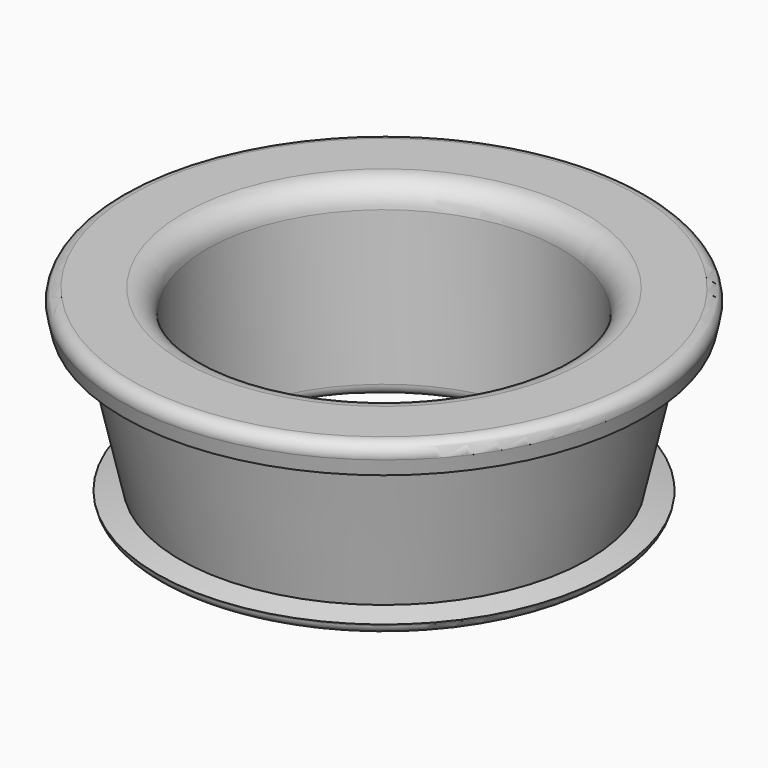
from build123d import *


with BuildPart() as f1:
    # F0 (on Front) → F1 (revolve)
    with BuildSketch(Plane.XZ):
        with BuildLine():
            ThreePointArc((-16, 0), (-15.292893, 0.292893), (-15, 1))
            Line((-15, 1), (-15, 14))
            ThreePointArc((-15, 14), (-15.585786, 15.414214), (-17, 16))
            Line((-17, 16), (-21.35, 16))
            ThreePointArc((-21.35, 16), (-22.130869, 15.624695), (-22.32561, 14.780488))
            Line((-22.32561, 14.780488), (-22.03525, 13.49))
            Line((-22.03525, 13.49), (-20.08403, 13.929024))
            Line((-20.08403, 13.929024), (-17.25128, 1.339024))
            Line((-17.25128, 1.339024), (-19.2025, 0.9))
            Line((-19.2025, 0.9), (-19.17561, 0.780488))
            ThreePointArc((-19.17561, 0.780488), (-18.824695, 0.219131), (-18.2, 0))
            Line((-18.2, 0), (-16, 0))
        make_face()
    revolve(axis=Axis((0, 0, 8.91906), (0, 0, 1)))


solid = f1.part
